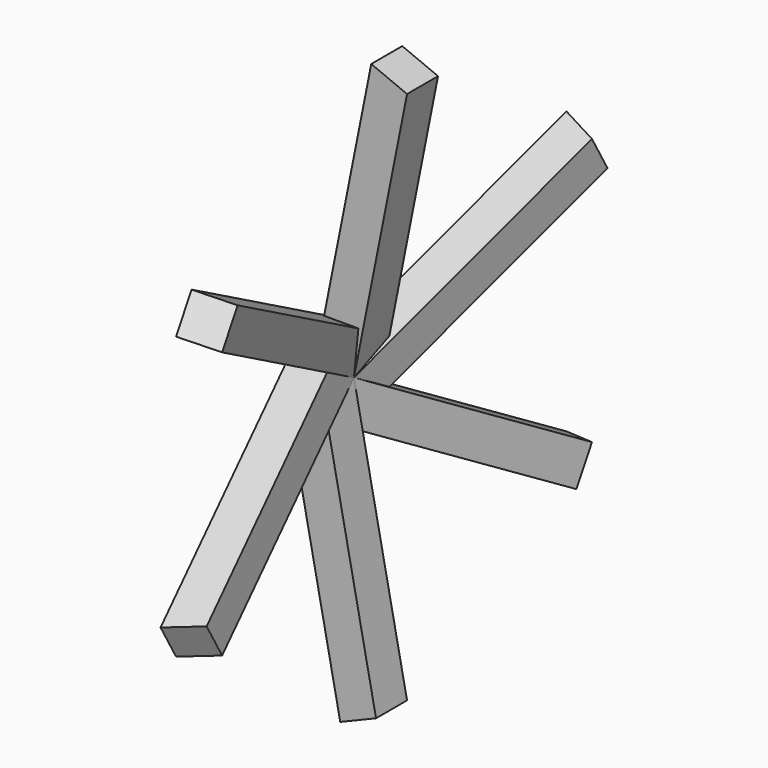
from build123d import *

# Parameters (mm, degrees)
F4_DEPTH = 2
F6_COUNT = 6


with BuildPart() as f4:
    # F0 (on Front) → F4 (new body)
    with BuildSketch(Plane.XZ):
        Polygon((-38.000996, 0), (-35.108343, -14.542352), (-33.260584, -13.776985), (-36.000996, 0), align=None)
    extrude(amount=F4_DEPTH)


with BuildPart() as f6_1:
    # F6: instance of F4
    add(f4.part.rotate(Axis((-19.000498, 0, 0), (-1, 0, 0)), 1 * 360 / F6_COUNT))


with BuildPart() as f6_2:
    # F6: instance of F4
    add(f4.part.rotate(Axis((-19.000498, 0, 0), (-1, 0, 0)), 2 * 360 / F6_COUNT))


with BuildPart() as f6_3:
    # F6: instance of F4
    add(f4.part.rotate(Axis((-19.000498, 0, 0), (-1, 0, 0)), 3 * 360 / F6_COUNT))


with BuildPart() as f6_4:
    # F6: instance of F4
    add(f4.part.rotate(Axis((-19.000498, 0, 0), (-1, 0, 0)), 4 * 360 / F6_COUNT))


with BuildPart() as f6_5:
    # F6: instance of F4
    add(f4.part.rotate(Axis((-19.000498, 0, 0), (-1, 0, 0)), 5 * 360 / F6_COUNT))


solid = Compound([f4.part, f6_1.part, f6_2.part, f6_3.part, f6_4.part, f6_5.part])
